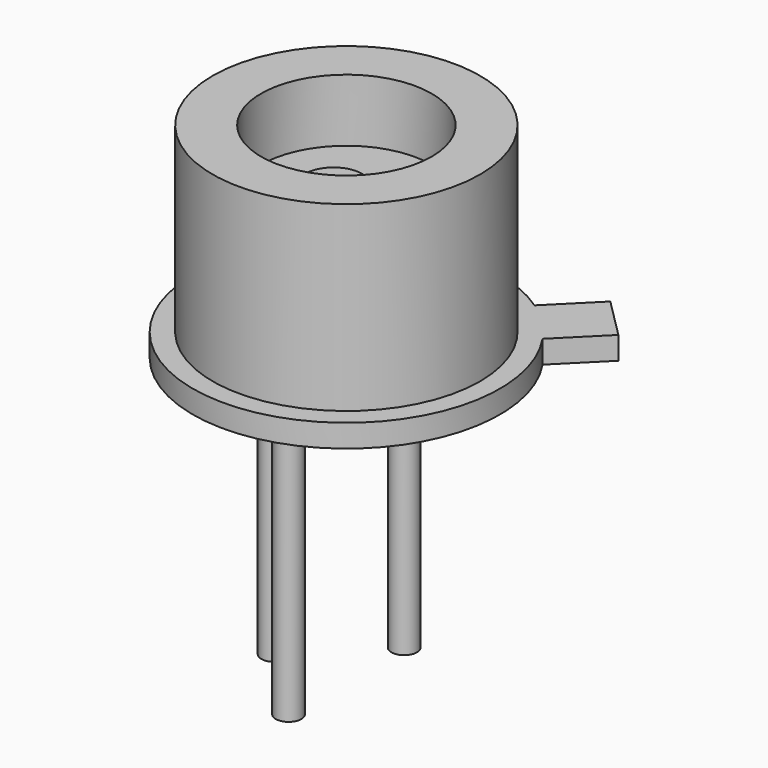
from build123d import *

# Parameters (mm, degrees)
F0_R     = 2.35
F0_R_2   = 1.5
F1_DEPTH = 3.6
F2_DEPTH = 0.4
F3_DEPTH = 2.5
F4_R     = 0.5
F5_DEPTH = 0.3
F6_R     = 0.225
F7_DEPTH = 5


with BuildPart() as f1:
    # F0 (on Top) → F1 (new body)
    with BuildSketch(Plane.XY):
        Circle(F0_R)
        Circle(F0_R_2, mode=Mode.SUBTRACT)
    extrude(amount=F1_DEPTH)

    # F0 (on Top) → F2 (join)
    with BuildSketch(Plane.XY):
        with BuildLine():
            Line((2.262742, 2.969848), (1.522613, 2.22972))
            ThreePointArc((1.522613, 2.22972), (-1.909188, -1.909188), (2.22972, 1.522613))
            Line((2.22972, 1.522613), (2.969848, 2.262742))
            Line((2.969848, 2.262742), (2.616295, 2.616295))
            Line((2.616295, 2.616295), (2.262742, 2.969848))
        make_face()
        Circle(F0_R, mode=Mode.SUBTRACT)
    extrude(amount=F2_DEPTH)

    # F0 (on Top) → F3 (join)
    with BuildSketch(Plane.XY):
        Circle(F0_R_2)
    extrude(amount=F3_DEPTH)

    # F4 (on face) → F5 (join)
    with BuildSketch(Plane.XY.offset(2.5)):
        with Locations((0, -0.282093)):
            Circle(F4_R)
    extrude(amount=F5_DEPTH)

    # F6 (on face) → F7 (join)
    with BuildSketch(Plane.XY):
        with Locations((0, -1.27)):
            Circle(F6_R)
        with Locations((-1.27, 0)):
            Circle(F6_R)
        with Locations((0, 1.27)):
            Circle(F6_R)
    extrude(amount=-F7_DEPTH)


solid = f1.part
